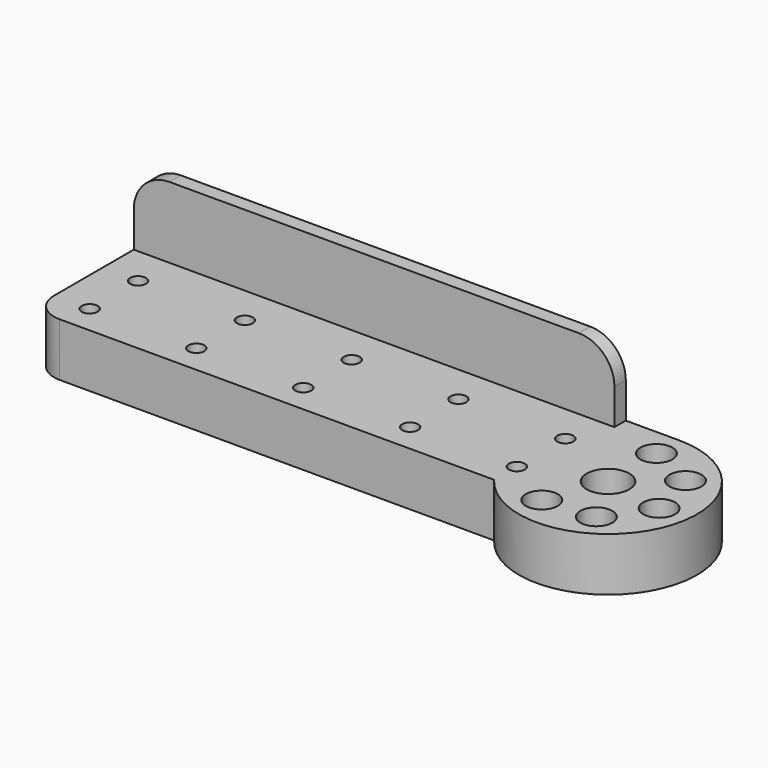
from build123d import *

# Parameters (mm, degrees)
F0_R     = 2.25
F0_R_2   = 4.5
F0_R_3   = 6
F1_DEPTH = 15
F2_W     = 135
F2_H     = 4
F3_DEPTH = 20
F4_R     = 10


with BuildPart() as f1:
    # F0 (on Top) → F1 (new body)
    with BuildSketch(Plane.XY):
        with BuildLine():
            ThreePointArc((0, 8), (2.343146, 2.343146), (8, 0))
            Line((8, 0), (130, 0))
            ThreePointArc((130, 0), (172.36068, 3.81966), (150, 40))
            Line((150, 40), (0, 40))
            Line((0, 40), (0, 8))
        make_face()
        with Locations((10, 8)):
            Circle(F0_R, mode=Mode.SUBTRACT)
        with Locations((40, 8)):
            Circle(F0_R, mode=Mode.SUBTRACT)
        with Locations((70, 8)):
            Circle(F0_R, mode=Mode.SUBTRACT)
        with Locations((144.185658, -0.974775)):
            Circle(F0_R_2, mode=Mode.SUBTRACT)
        with Locations((158.5, 0.277568)):
            Circle(F0_R_2, mode=Mode.SUBTRACT)
        with Locations((100, 8)):
            Circle(F0_R, mode=Mode.SUBTRACT)
        with Locations((130, 8)):
            Circle(F0_R, mode=Mode.SUBTRACT)
        with Locations((166.741732, 12.047981)):
            Circle(F0_R_2, mode=Mode.SUBTRACT)
        with Locations((10, 25)):
            Circle(F0_R, mode=Mode.SUBTRACT)
        with Locations((40, 25)):
            Circle(F0_R, mode=Mode.SUBTRACT)
        with Locations((70, 25)):
            Circle(F0_R, mode=Mode.SUBTRACT)
        with Locations((100, 25)):
            Circle(F0_R, mode=Mode.SUBTRACT)
        with Locations((130, 25)):
            Circle(F0_R, mode=Mode.SUBTRACT)
        with Locations((150, 15)):
            Circle(F0_R_3, mode=Mode.SUBTRACT)
        with Locations((163.022756, 25.927389)):
            Circle(F0_R_2, mode=Mode.SUBTRACT)
        with Locations((150, 32)):
            Circle(F0_R_2, mode=Mode.SUBTRACT)
    extrude(amount=F1_DEPTH)

    # F2 (on face) → F3 (join)
    with BuildSketch(Plane.XY.offset(15)):
        with Locations((67.5, 38)):
            Rectangle(F2_W, F2_H)
    extrude(amount=F3_DEPTH)

    # F4
    f4_edges = [f1.edges().sort_by_distance(p)[0] for p in [
        (135, 38, 35),
        (0, 38, 35),
    ]]
    fillet(f4_edges, radius=F4_R)


solid = f1.part
